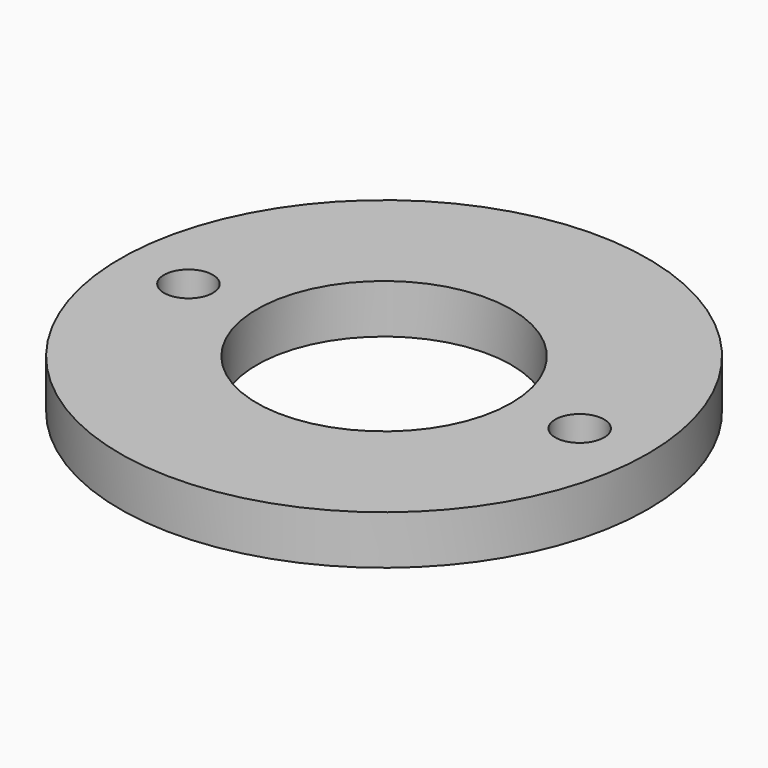
from build123d import *

# Parameters (mm, degrees)
SKETCH_R   = 10.794193
SKETCH_R_2 = 1
SKETCH_R_3 = 5.2
PAD_DEPTH  = 2


with BuildPart() as part:
    # Sketch → Pad (new body)
    with BuildSketch(Plane.XY):
        Circle(SKETCH_R)
        with Locations((8, 0)):
            Circle(SKETCH_R_2, mode=Mode.SUBTRACT)
        with Locations((-8, 0)):
            Circle(SKETCH_R_2, mode=Mode.SUBTRACT)
        Circle(SKETCH_R_3, mode=Mode.SUBTRACT)
    extrude(amount=PAD_DEPTH)


solid = part.part
